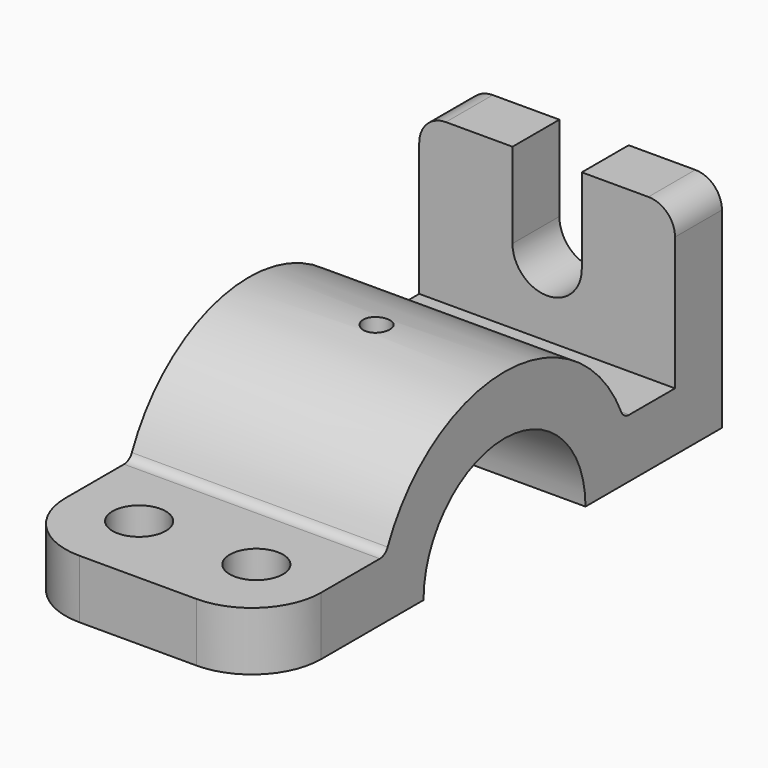
from build123d import *

# Parameters (mm, degrees)
F0_W     = 11
F0_H     = 30
F1_DEPTH = 24
F3_DEPTH = 11
F4_R     = 5
F4_R_2   = 2.5
F5_DEPTH = 41.001
F6_R     = 5
F7_R     = 13
F8_R     = 2


with BuildPart() as f1:
    # F0 (on Right) → F1 (new body, symmetric)
    with BuildSketch(Plane.YZ):
        with BuildLine():
            Line((-56, 0), (-30, 0))
            ThreePointArc((-30, 0), (-29.4730143031, 5.5983415304), (-27.9105714739, 11))
            Line((-27.9105714739, 11), (-56, 11))
            Line((-56, 11), (-56, 0))
        make_face()
        with BuildLine():
            Line((-30, 0), (-19, 0))
            ThreePointArc((-19, 0), (-18.1017503893, 5.7729223833), (-15.4919333848, 11))
            Line((-15.4919333848, 11), (-27.9105714739, 11))
            ThreePointArc((-27.9105714739, 11), (-29.4730143031, 5.5983415304), (-30, 0))
        make_face()
        with BuildLine():
            ThreePointArc((-15.4919333848, 11), (0, 19), (15.4919333848, 11))
            Line((15.4919333848, 11), (27.9105714739, 11))
            ThreePointArc((27.9105714739, 11), (0, 30), (-27.9105714739, 11))
            Line((-27.9105714739, 11), (-15.4919333848, 11))
        make_face()
        with BuildLine():
            ThreePointArc((15.4919333848, 11), (18.1017503893, 5.7729223833), (19, 0))
            Line((19, 0), (30, 0))
            ThreePointArc((30, 0), (29.4730143031, 5.5983415304), (27.9105714739, 11))
            Line((27.9105714739, 11), (15.4919333848, 11))
        make_face()
        with BuildLine():
            ThreePointArc((27.9105714739, 11), (29.4730143031, 5.5983415304), (30, 0))
            Line((30, 0), (51, 0))
            Line((51, 0), (51, 11))
            Line((51, 11), (40, 11))
            Line((40, 11), (27.9105714739, 11))
        make_face()
        with Locations((45.5, 26)):
            Rectangle(F0_W, F0_H)
    extrude(amount=F1_DEPTH, both=True)

    # F2 (on face) → F3 (cut, through all)
    with BuildSketch(Plane(origin=(0, 51, 0), x_dir=(-1, 0, 0), z_dir=(0, 1, 0))):
        with BuildLine():
            ThreePointArc((-6.5, 25), (0, 18.5), (6.5, 25))
            ThreePointArc((6.5, 25), (0, 31.5), (-6.5, 25))
        make_face()
        with BuildLine():
            ThreePointArc((-6.5, 25), (0, 31.5), (6.5, 25))
            Line((6.5, 25), (6.5, 41))
            Line((6.5, 41), (-6.5, 41))
            Line((-6.5, 41), (-6.5, 25))
        make_face()
    extrude(amount=-F3_DEPTH, mode=Mode.SUBTRACT)

    # F4 (on Top) → F5 (cut, through all)
    with BuildSketch(Plane.XY):
        with Locations((11, -41.955285737)):
            Circle(F4_R)
        with Locations((-11, -41.955285737)):
            Circle(F4_R)
        Circle(F4_R_2)
    extrude(amount=F5_DEPTH, mode=Mode.SUBTRACT)

    # F6
    f6_edges = [f1.edges().sort_by_distance(p)[0] for p in [
        (24, 45.5, 41),
        (-24, 45.5, 41),
    ]]
    fillet(f6_edges, radius=F6_R)

    # F7
    f7_edges = [f1.edges().sort_by_distance(p)[0] for p in [
        (24, -56, 5.5),
        (-24, -56, 5.5),
    ]]
    fillet(f7_edges, radius=F7_R)

    # F8
    f8_edges = [f1.edges().sort_by_distance(p)[0] for p in [
        (0, -27.910571, 11),
        (0, 27.910571, 11),
    ]]
    fillet(f8_edges, radius=F8_R)


solid = f1.part
